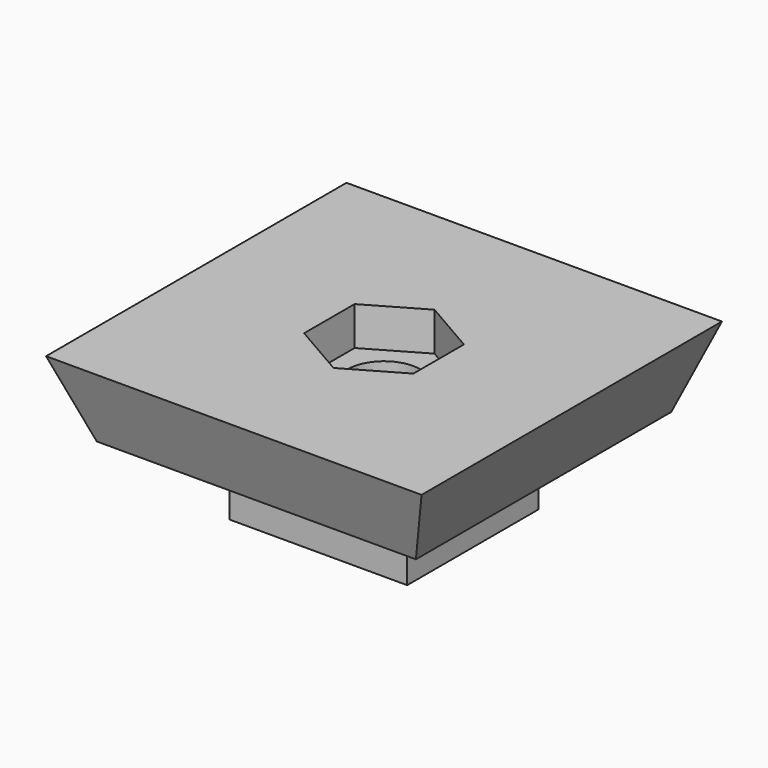
from build123d import *

# Parameters (mm, degrees)
F0_W     = 33
F0_H     = 33
F1_DEPTH = 8
F1_TAPER = -20
F3_DEPTH = 4
F4_W     = 18.3548238128
F4_H     = 16.941415146
F5_DEPTH = 8
F7_D     = 7.5438
F7_DEPTH = 25
F7_TIP   = 2.2663861689


with BuildPart() as f1:
    # F0 (on Top) → F1 (new body)
    with BuildSketch(Plane.XY):
        Rectangle(F0_W, F0_H)
    extrude(amount=F1_DEPTH, taper=F1_TAPER)

    # F2 (on face) → F3 (cut)
    with BuildSketch(Plane.XY.offset(8)):
        Polygon((5.65, -3.2620290209), (5.65, 3.2620290209), (0, 6.5240580418), (-5.65, 3.2620290209), (-5.65, -3.2620290209), (0, -6.5240580418), align=None)
    extrude(amount=-F3_DEPTH, mode=Mode.SUBTRACT)

    # F4 (on face) → F5 (join)
    with BuildSketch(Plane(origin=(0, 0, 0), x_dir=(1, 0, 0), z_dir=(0, 0, -1))):
        Rectangle(F4_W, F4_H)
    extrude(amount=F5_DEPTH)

    # F7
    with Locations(Plane(origin=(0, 0, -8), x_dir=(1, 0, 0), z_dir=(0, 0, -1))):
        with Locations((0, 0)):
            Hole(F7_D / 2, depth=F7_DEPTH)
            with Locations((0, 0, -(F7_DEPTH + F7_TIP / 2))):  # 118° drill point
                Cone(0, F7_D / 2, F7_TIP, mode=Mode.SUBTRACT)


solid = f1.part
